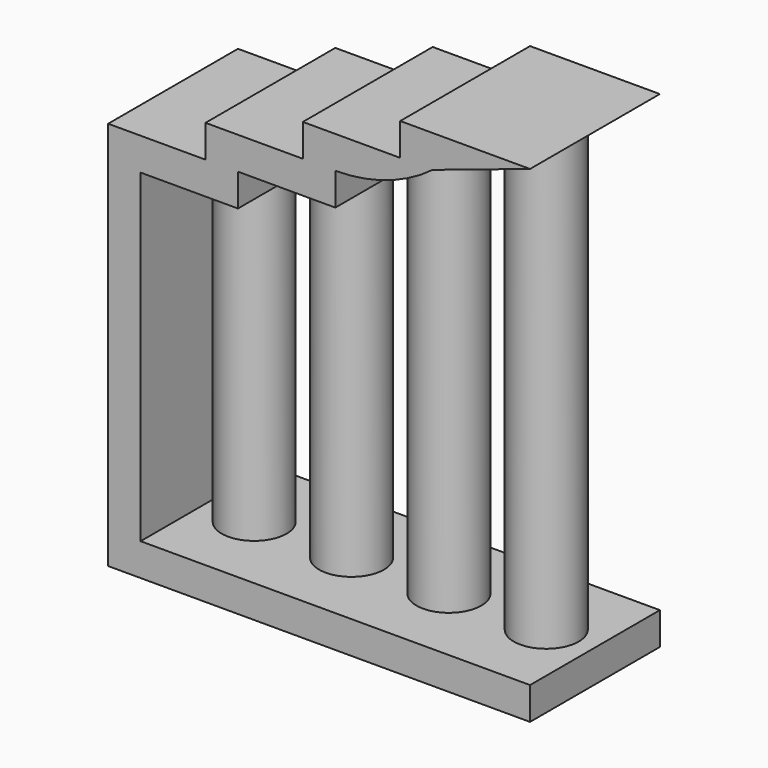
from build123d import *

# Parameters (mm, degrees)
F0_W     = 5
F0_H     = 50
F1_DEPTH = 25
F2_R     = 5


with BuildPart() as f1:
    # F0 (on Front) → F1 (new body)
    with BuildSketch(Plane.XZ):
        Polygon((0, 5), (0, 0), (65, 0), (65, 5), (5, 5), align=None)
        with Locations((2.5, 30)):
            Rectangle(F0_W, F0_H)
        with BuildLine():
            Line((0, 60), (0, 55))
            Line((0, 55), (5, 55))
            Line((5, 55), (20, 55))
            Line((20, 55), (20, 60))
            Line((20, 60), (35, 60))
            Line((35, 60), (35, 65))
            ThreePointArc((35, 65), (42.9056941504, 66.2829175487), (50, 70))
            Line((50, 70), (65, 75))
            Line((65, 75), (45, 75))
            Line((45, 75), (45, 70))
            Line((45, 70), (30, 70))
            Line((30, 70), (30, 65))
            Line((30, 65), (15, 65))
            Line((15, 65), (15, 60))
            Line((15, 60), (0, 60))
        make_face()
    extrude(amount=F1_DEPTH)


with BuildPart() as f3:
    # F2 (on face) → F3 (new body, up to the next surface of F1)
    with BuildSketch(Plane.XY.offset(5)):
        with Locations((12.5, -12.5)):
            Circle(F2_R)
    extrude(until=Until.NEXT, target=f1.part)


with BuildPart() as f3b:
    # F2 (on face) → F3, piece 2 (new body, up to the next surface of F1)
    with BuildSketch(Plane.XY.offset(5)):
        with Locations((27.5, -12.5)):
            Circle(F2_R)
    extrude(until=Until.NEXT, target=f1.part)


with BuildPart() as f3c:
    # F2 (on face) → F3, piece 3 (new body, up to the next surface of F1)
    with BuildSketch(Plane.XY.offset(5)):
        with Locations((42.5, -12.5)):
            Circle(F2_R)
    extrude(until=Until.NEXT, target=f1.part)


with BuildPart() as f3d:
    # F2 (on face) → F3, piece 4 (new body, up to the next surface of F1)
    with BuildSketch(Plane.XY.offset(5)):
        with Locations((57.5, -12.5)):
            Circle(F2_R)
    extrude(until=Until.NEXT, target=f1.part)


solid = Compound([f1.part, f3.part, f3b.part, f3c.part, f3d.part])
